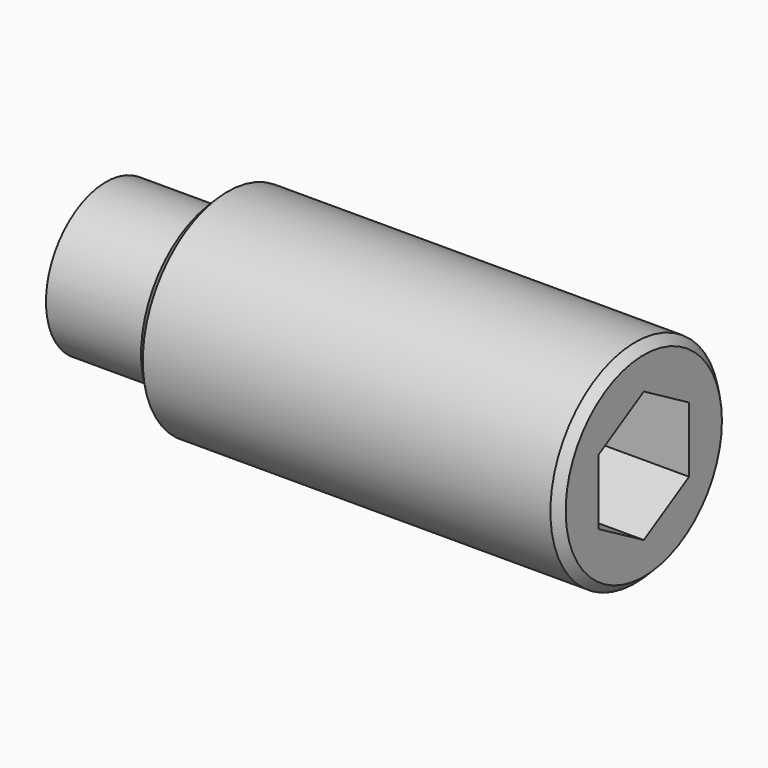
from build123d import *

# Parameters (mm, degrees)
F0_R     = 2.65
F1_DEPTH = 4
F2_R     = 3.75
F3_DEPTH = 15
F5_DEPTH = 4
F6_SIZE  = 0.3


with BuildPart() as f1:
    # F0 (on Right) → F1 (new body)
    with BuildSketch(Plane.YZ):
        Circle(F0_R)
    extrude(amount=F1_DEPTH)

    # F2 (on face) → F3 (join)
    with BuildSketch(Plane.YZ.offset(4)):
        Circle(F2_R)
    extrude(amount=F3_DEPTH)

    # F4 (on face) → F5 (cut)
    with BuildSketch(Plane.YZ.offset(19)):
        Polygon((2, -1.154701), (2, 1.154701), (0, 2.309401), (-2, 1.154701), (-2, -1.154701), (0, -2.309401), align=None)
    extrude(amount=-F5_DEPTH, mode=Mode.SUBTRACT)

    # F6
    f6_edges = [f1.edges().sort_by_distance(p)[0] for p in [
        (19, -3.75, 0),
        (4, -3.75, 0),
    ]]
    chamfer(f6_edges, length=F6_SIZE)


solid = f1.part
